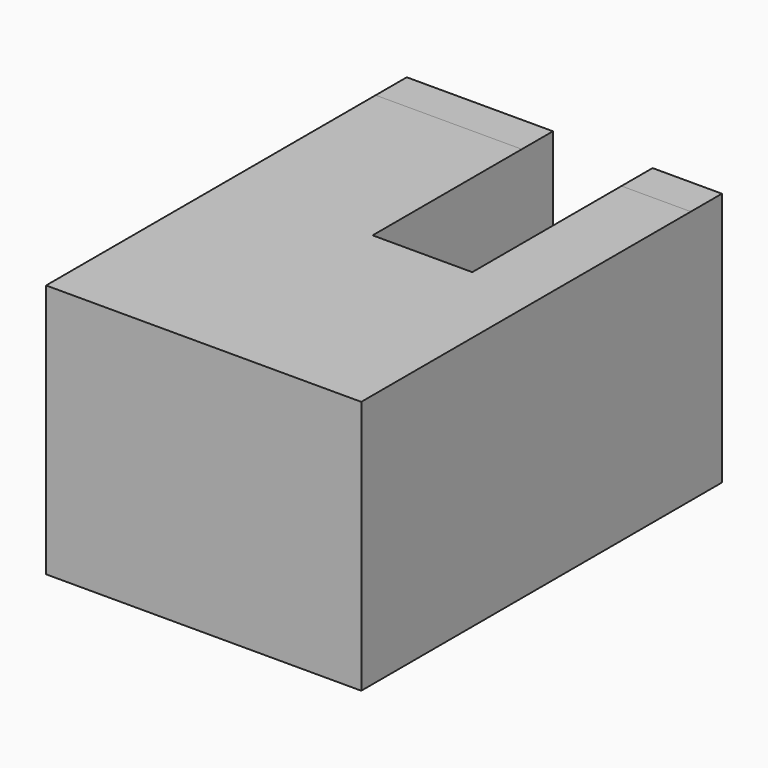
from build123d import *

# Parameters (mm, degrees)
F0_W      = 142.054408
F0_H      = 39.950106
F1_DEPTH  = 203.2
F2_W      = 44.913828
F2_H      = 101.6
F3_DEPTH  = 25.4
F4_DEPTH  = 74.676
F4_FACE_W = 44.913828
F4_FACE_H = 49.276
F5_DEPTH  = 73.914
F6_DEPTH  = 64.008
F7_DEPTH  = 17.526
F8_R      = 12.974373
F9_DEPTH  = 96.012


with BuildPart() as f1:
    # F0 (on Front) → F1 (new body)
    with BuildSketch(Plane.XZ):
        Rectangle(F0_W, F0_H)
    extrude(amount=F1_DEPTH)

    # F2 (on face) → F3 (join)
    with BuildSketch(Plane.XY.offset(19.975053)):
        with Locations((17.319355, -50.8)):
            Rectangle(F2_W, F2_H)
    extrude(amount=F3_DEPTH)

    # F1_face (on face) → F4 (join)
    with BuildSketch(Plane(origin=(0, -101.6, 19.975053), x_dir=(1, 0, 0), z_dir=(0, 0, 1))):
        Polygon((71.027204, 101.6), (39.776269, 101.6), (39.776269, 0), (-5.137559, 0), (-5.137559, 101.6), (-71.027204, 101.6), (-71.027204, -101.6), (71.027204, -101.6), align=None)
    extrude(amount=F4_DEPTH)

    # F4_face (on face) → F5 (join)
    with BuildSketch(Plane(origin=(17.319355, -101.6, 70.013053), x_dir=(-1, 0, 0), z_dir=(0, 1, 0))):
        Rectangle(F4_FACE_W, F4_FACE_H)
    extrude(amount=-F5_DEPTH)

    # F4_face (on face) → F6 (join)
    with BuildSketch(Plane(origin=(17.319355, -101.6, 70.013053), x_dir=(-1, 0, 0), z_dir=(0, 1, 0))):
        Rectangle(F4_FACE_W, F4_FACE_H)
    extrude(amount=-F6_DEPTH)

    # F3_face (on face) → F7 (join)
    with BuildSketch(Plane(origin=(-2.724295, 0, 32.19829), x_dir=(1, 0, 0), z_dir=(0, 1, 0))):
        Polygon((73.751499, -62.452764), (73.751499, 52.173343), (-68.30291, 52.173343), (-68.30291, -62.452764), (-2.413264, -62.452764), (-2.413264, -13.176764), (42.500564, -13.176764), (42.500564, -62.452764), align=None)
    extrude(amount=-F7_DEPTH)

    # F8 (on face) → F9 (join)
    with BuildSketch(Plane.XY.offset(94.651053)):
        with Locations((-25.044408, -175.108269)):
            Circle(F8_R)
    extrude(amount=-F9_DEPTH)


solid = f1.part
